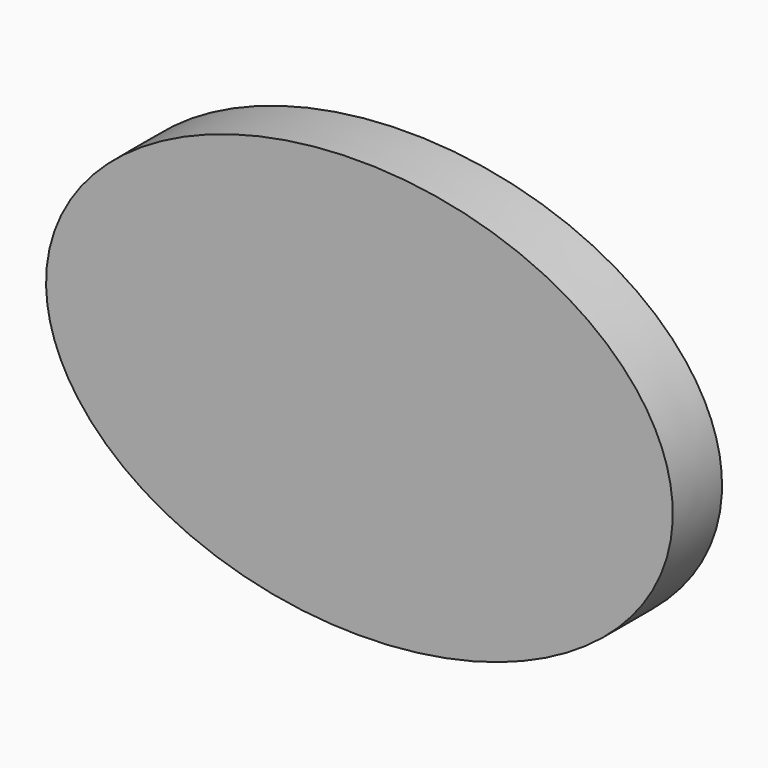
from build123d import *

# Parameters (mm, degrees)
F1_DEPTH = 30
F2_W     = 10
F2_H     = 20
F2_H_2   = 21.07143
F3_DEPTH = 10


with BuildPart() as f1:
    # F0 (on Front) → F1 (new body)
    with BuildSketch(Plane.XZ):
        with BuildLine():
            Line((0, 0), (0, 101.747245))
            add(Edge.make_bspline(
                [(0, 101.747245), (-152.620867, 101.747245), (-152.620867, 0), (-152.620867, -101.747245), (0, -101.747245)],
                knots=[1.570796, 1.570796, 1.570796, 3.141593, 3.141593, 4.712389, 4.712389, 4.712389], degree=2, weights=[1, 0.707107, 1, 0.707107, 1]))
            Line((0, -101.747245), (0, 0))
        make_face()
        with BuildLine():
            add(Edge.make_bspline(
                [(0, -101.747245), (152.620867, -101.747245), (152.620867, 0)],
                knots=[4.712389, 4.712389, 4.712389, 6.283185, 6.283185, 6.283185], degree=2, weights=[1, 0.707107, 1]))
            add(Edge.make_bspline(
                [(152.620867, 0), (152.620867, 101.747245), (0, 101.747245)],
                knots=[0, 0, 0, 1.570796, 1.570796, 1.570796], degree=2, weights=[1, 0.707107, 1]))
            Line((0, 101.747245), (0, 0))
            Line((0, 0), (0, -101.747245))
        make_face()
    extrude(amount=F1_DEPTH)

    # F2 (on face) → F3 (join)
    with BuildSketch(Plane.XZ):
        with Locations((-15, 0.758463)):
            Rectangle(F2_W, F2_H)
        with Locations((15, 0.222748)):
            Rectangle(F2_W, F2_H_2)
    extrude(amount=-F3_DEPTH)


solid = f1.part
